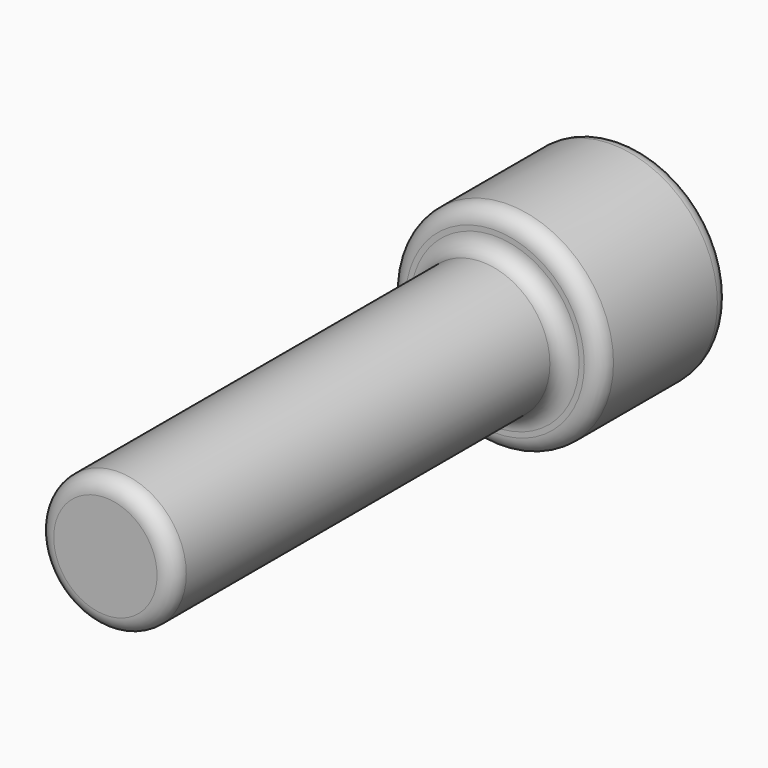
from build123d import *

# Parameters (mm, degrees)
F0_R     = 33.03147
F1_DEPTH = 50.8
F2_R     = 21.247393
F3_DEPTH = 203.2
F4_R     = 5.08
F5_R     = 5.08
F6_R     = 5.08


with BuildPart() as f1:
    # F0 (on Front) → F1 (new body)
    with BuildSketch(Plane.XZ):
        Circle(F0_R)
    extrude(amount=F1_DEPTH)

    # F2 (on Front) → F3 (join)
    with BuildSketch(Plane.XZ):
        Circle(F2_R)
    extrude(amount=F3_DEPTH)

    # F4
    f4_edges = [f1.edges().sort_by_distance(p)[0] for p in [
        (-33.03147, 0, 0),
    ]]
    fillet(f4_edges, radius=F4_R)

    # F5
    f5_edges = [f1.edges().sort_by_distance(p)[0] for p in [
        (-33.03147, -50.8, 0),
    ]]
    fillet(f5_edges, radius=F5_R)

    # F6
    f6_edges = [f1.edges().sort_by_distance(p)[0] for p in [
        (-21.247393, -50.8, 0),
        (-21.247393, -203.2, 0),
    ]]
    fillet(f6_edges, radius=F6_R)


solid = f1.part
